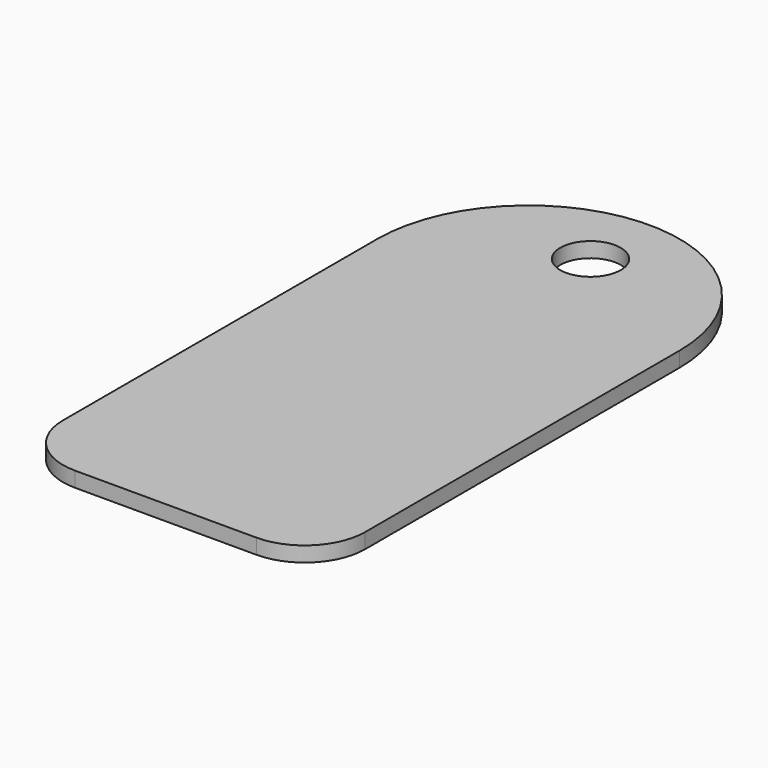
from build123d import *

# Parameters (mm, degrees)
F0_R     = 2.54
F1_DEPTH = 1.27
F2_R     = 5.08


with BuildPart() as f1:
    # F0 (on Top) → F1 (new body)
    with BuildSketch(Plane.XY):
        with BuildLine():
            Line((-12.7, -19.05), (12.7, -19.05))
            Line((12.7, -19.05), (12.7, 19.05))
            ThreePointArc((12.7, 19.05), (0, 31.75), (-12.7, 19.05))
            Line((-12.7, 19.05), (-12.7, -19.05))
        make_face()
        with Locations((0, 25.569119)):
            Circle(F0_R, mode=Mode.SUBTRACT)
    extrude(amount=F1_DEPTH)

    # F2
    f2_edges = [f1.edges().sort_by_distance(p)[0] for p in [
        (-12.7, -19.05, 0.635),
        (12.7, -19.05, 0.635),
    ]]
    fillet(f2_edges, radius=F2_R)


solid = f1.part
